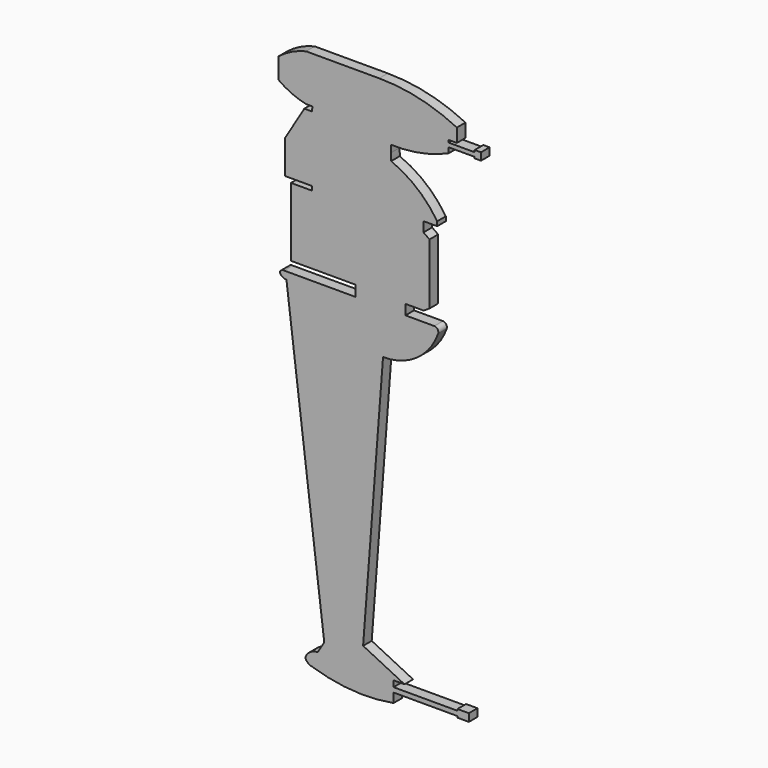
from build123d import *

# Parameters (mm, degrees)
F0_W     = 2.97095
F0_H     = 0.218032
F0_W_2   = 1.209654
F0_H_2   = 0.189883
F1_DEPTH = 0.5


with BuildPart() as f1:
    # F0 (on Front) → F1 (new body)
    with BuildSketch(Plane.XZ):
        with BuildLine():
            ThreePointArc((-44.103578, 8.935158), (-43.980027, 8.789603), (-43.794962, 8.742675))
            Line((-43.794962, 8.742675), (-42.037207, -5.533148))
            Line((-42.037207, -5.533148), (-42.346001, -6.031972))
            ThreePointArc((-42.346001, -6.031972), (-42.678832, -6.130309), (-42.904774, -6.39374))
            Line((-42.904774, -6.39374), (-42.904774, -6.481908))
            ThreePointArc((-42.904774, -6.481908), (-42.780729, -6.63127), (-42.601286, -6.705408))
            ThreePointArc((-42.601286, -6.705408), (-40.726024, -7.06924), (-38.818597, -6.965784))
            Line((-38.818597, -6.965784), (-38.818597, -6.532135))
            Line((-38.818597, -6.532135), (-38.818597, -6.314103))
            Line((-38.818597, -6.314103), (-38.818597, -6.031972))
            Line((-38.818597, -6.031972), (-38.307915, -6.031972))
            Line((-38.307915, -6.031972), (-40.231944, -5.081834))
            Line((-40.231944, -5.081834), (-39.30556, 7.032427))
            ThreePointArc((-39.30556, 7.032427), (-37.733332, 7.518913), (-36.741034, 8.831892))
            ThreePointArc((-36.741034, 8.831892), (-36.774021, 8.995548), (-36.920728, 9.075224))
            Line((-36.920728, 9.075224), (-38.264113, 9.075224))
            Line((-38.264113, 9.075224), (-38.264113, 9.545864))
            Line((-38.264113, 9.545864), (-37.425197, 9.545864))
            Line((-37.425197, 9.545864), (-37.145558, 9.720638))
            Line((-37.145558, 9.720638), (-37.145558, 12.546355))
            Line((-37.145558, 12.546355), (-37.425197, 12.74232))
            Line((-37.425197, 12.74232), (-37.425197, 13.201373))
            Line((-37.425197, 13.201373), (-36.788988, 13.201373))
            Line((-36.788988, 13.201373), (-36.788988, 13.403278))
            ThreePointArc((-36.788988, 13.403278), (-37.723861, 14.44951), (-38.928528, 15.168793))
            ThreePointArc((-38.928528, 15.168793), (-38.9336, 15.170855), (-38.938675, 15.17291))
            Line((-38.938675, 15.17291), (-38.938675, 15.505459))
            Line((-38.938675, 15.505459), (-38.938675, 15.838007))
            ThreePointArc((-38.938675, 15.838007), (-37.566496, 15.944642), (-36.254536, 16.360583))
            Line((-36.254536, 16.360583), (-36.254536, 16.604704))
            Line((-36.254536, 16.604704), (-36.254536, 16.794587))
            Line((-36.254536, 16.794587), (-36.254536, 16.906913))
            Line((-36.254536, 16.906913), (-35.874481, 16.906913))
            Line((-35.874481, 16.906913), (-35.874481, 17.536379))
            ThreePointArc((-35.874481, 17.536379), (-37.632307, 18.162802), (-39.486278, 18.375282))
            Line((-39.486278, 18.375282), (-41.803283, 18.375282))
            Line((-41.803283, 18.375282), (-42.881891, 18.375282))
            ThreePointArc((-42.881891, 18.375282), (-43.559562, 18.134035), (-44.166764, 17.74836))
            Line((-44.166764, 17.74836), (-44.166764, 16.790975))
            ThreePointArc((-44.166764, 16.790975), (-43.554395, 16.437088), (-42.881891, 16.21807))
            Line((-42.881891, 16.21807), (-42.582278, 16.21807))
            Line((-42.582278, 16.21807), (-42.613738, 16.00273))
            Line((-42.613738, 16.00273), (-42.964101, 16.00273))
            Line((-42.964101, 16.00273), (-43.854554, 14.518307))
            Line((-43.854554, 14.518307), (-43.854554, 12.956257))
            Line((-43.854554, 12.956257), (-42.603236, 12.956257))
            Line((-42.603236, 12.956257), (-42.603236, 12.76462))
            Line((-42.603236, 12.76462), (-43.582644, 12.76462))
            Line((-43.582644, 12.76462), (-43.582644, 9.575224))
            Line((-43.582644, 9.575224), (-40.582644, 9.575224))
            Line((-40.582644, 9.575224), (-40.582644, 9.075224))
            Line((-40.582644, 9.075224), (-43.264113, 9.075224))
            Line((-43.264113, 9.075224), (-43.901596, 9.075224))
            ThreePointArc((-43.901596, 9.075224), (-44.030593, 9.045576), (-44.103578, 8.935158))
        make_face()
        with Locations((-37.333122, -6.423119)):
            Rectangle(F0_W, F0_H)
        Polygon((-35.847647, -6.314103), (-35.847647, -6.532135), (-35.847647, -6.597614), (-35.317635, -6.597614), (-35.317635, -6.240905), (-35.847647, -6.240905), align=None)
        with BuildLine():
            ThreePointArc((-38.938675, 15.17291), (-38.9336, 15.170855), (-38.928528, 15.168793))
            ThreePointArc((-38.928528, 15.168793), (-38.929196, 15.337259), (-38.938675, 15.505459))
            Line((-38.938675, 15.505459), (-38.938675, 15.17291))
        make_face()
        with Locations((-35.649709, 16.699645)):
            Rectangle(F0_W_2, F0_H_2)
        Polygon((-35.044882, 16.887183), (-35.044882, 16.794587), (-35.044882, 16.604704), (-35.044882, 16.541855), (-34.755295, 16.541855), (-34.755295, 16.887183), align=None)
    extrude(amount=F1_DEPTH)


solid = f1.part
